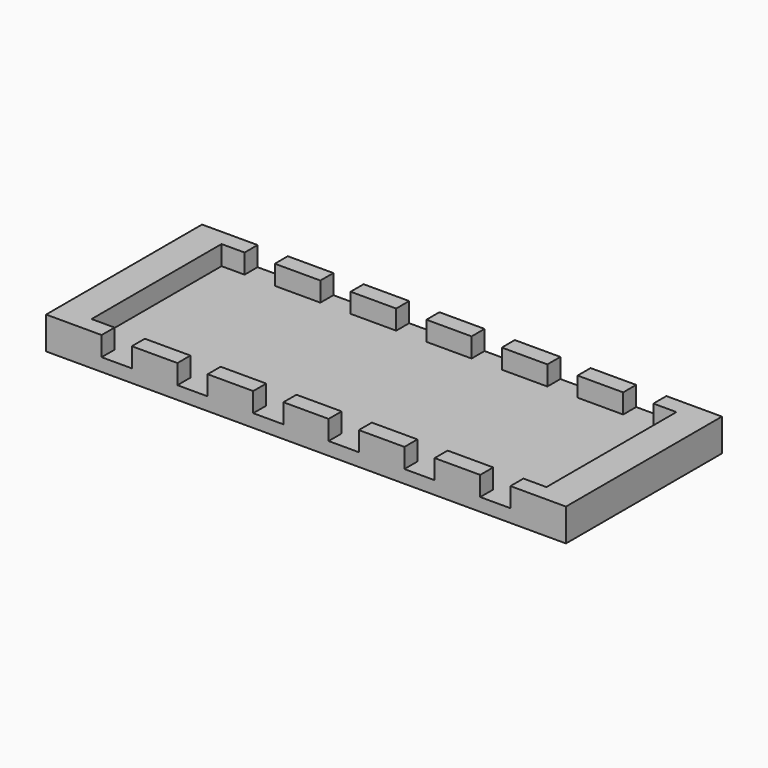
from build123d import *

# Parameters (mm, degrees)
F0_W     = 14.03
F0_H     = 5
F0_W_2   = 13.9
F0_H_2   = 25
F0_W_3   = 9.3
F0_W_4   = 7.09
F0_H_3   = 50
F1_DEPTH = 4
F2_DEPTH = 6


with BuildPart() as f1:
    # F0 (on Top) → F1 (new body)
    with BuildSketch(Plane.XY):
        with Locations((-23.265, 27.5)):
            Rectangle(F0_W, F0_H)
        with Locations((0, -27.5)):
            Rectangle(F0_W_2, F0_H)
        with Locations((46.595, -27.5)):
            Rectangle(F0_W, F0_H)
        Polygon((-62.91, 25), (-62.91, 30), (-80, 30), (-80, -30), (-62.91, -30), (-62.91, -25), (-70, -25), (-70, 25), align=None)
        with Locations((23.265, -12.5)):
            Rectangle(F0_W, F0_H_2)
        with Locations((58.26, -27.5)):
            Rectangle(F0_W_3, F0_H)
        with Locations((34.93, 27.5)):
            Rectangle(F0_W_3, F0_H)
        with Locations((-11.6, -27.5)):
            Rectangle(F0_W_3, F0_H)
        with Locations((-66.455, 0)):
            Rectangle(F0_W_4, F0_H_3)
        with Locations((23.265, 27.5)):
            Rectangle(F0_W, F0_H)
        with Locations((66.455, 0)):
            Rectangle(F0_W_4, F0_H_3)
        with Locations((-58.26, 27.5)):
            Rectangle(F0_W_3, F0_H)
        with Locations((46.595, 27.5)):
            Rectangle(F0_W, F0_H)
        with Locations((-46.595, 27.5)):
            Rectangle(F0_W, F0_H)
        Polygon((80, -30), (80, 30), (62.91, 30), (62.91, 25), (70, 25), (70, -25), (62.91, -25), (62.91, -30), align=None)
        with Locations((-34.93, 27.5)):
            Rectangle(F0_W_3, F0_H)
        with Locations((58.26, 27.5)):
            Rectangle(F0_W_3, F0_H)
        with Locations((11.6, 27.5)):
            Rectangle(F0_W_3, F0_H)
        with Locations((0, 27.5)):
            Rectangle(F0_W_2, F0_H)
        with Locations((-23.265, -27.5)):
            Rectangle(F0_W, F0_H)
        with Locations((-11.6, 27.5)):
            Rectangle(F0_W_3, F0_H)
        with Locations((23.265, -27.5)):
            Rectangle(F0_W, F0_H)
        with Locations((-34.93, -27.5)):
            Rectangle(F0_W_3, F0_H)
        with Locations((-46.595, 0)):
            Rectangle(F0_W, F0_H_3)
        with Locations((23.265, 12.5)):
            Rectangle(F0_W, F0_H_2)
        Polygon((6.95, 0), (6.95, 25), (-6.95, 25), (-6.95, -25), (6.95, -25), align=None)
        with Locations((34.93, -27.5)):
            Rectangle(F0_W_3, F0_H)
        with Locations((-46.595, -27.5)):
            Rectangle(F0_W, F0_H)
        with Locations((46.595, 12.5)):
            Rectangle(F0_W, F0_H_2)
        with Locations((46.595, -12.5)):
            Rectangle(F0_W, F0_H_2)
        with Locations((-58.26, -27.5)):
            Rectangle(F0_W_3, F0_H)
        with Locations((-23.265, 0)):
            Rectangle(F0_W, F0_H_3)
        with Locations((11.6, -27.5)):
            Rectangle(F0_W_3, F0_H)
        with Locations((-58.26, 0)):
            Rectangle(F0_W_3, F0_H_3)
        with Locations((-34.93, 0)):
            Rectangle(F0_W_3, F0_H_3)
        with Locations((-11.6, 0)):
            Rectangle(F0_W_3, F0_H_3)
        Polygon((16.25, -25), (16.25, 0), (11.6, 0), (6.95, 0), (6.95, -25), align=None)
        Polygon((16.25, 0), (16.25, 25), (6.95, 25), (6.95, 0), (11.6, 0), align=None)
        Polygon((39.58, 0), (39.58, 25), (30.28, 25), (30.28, 0), (34.93, 0), align=None)
        Polygon((62.91, -25), (62.91, 25), (53.61, 25), (53.61, 0), (53.61, -25), align=None)
        Polygon((39.58, -25), (39.58, 0), (34.93, 0), (30.28, 0), (30.28, -25), align=None)
    extrude(amount=-F1_DEPTH)

    # F0 (on Top) → F2 (join)
    with BuildSketch(Plane.XY):
        Polygon((-62.91, 25), (-62.91, 30), (-80, 30), (-80, -30), (-62.91, -30), (-62.91, -25), (-70, -25), (-70, 25), align=None)
        with Locations((-46.595, 27.5)):
            Rectangle(F0_W, F0_H)
        with Locations((-46.595, -27.5)):
            Rectangle(F0_W, F0_H)
        with Locations((-23.265, -27.5)):
            Rectangle(F0_W, F0_H)
        with Locations((-23.265, 27.5)):
            Rectangle(F0_W, F0_H)
        with Locations((0, 27.5)):
            Rectangle(F0_W_2, F0_H)
        with Locations((0, -27.5)):
            Rectangle(F0_W_2, F0_H)
        with Locations((23.265, -27.5)):
            Rectangle(F0_W, F0_H)
        with Locations((23.265, 27.5)):
            Rectangle(F0_W, F0_H)
        with Locations((46.595, 27.5)):
            Rectangle(F0_W, F0_H)
        with Locations((46.595, -27.5)):
            Rectangle(F0_W, F0_H)
        Polygon((80, -30), (80, 30), (62.91, 30), (62.91, 25), (70, 25), (70, -25), (62.91, -25), (62.91, -30), align=None)
    extrude(amount=F2_DEPTH)


solid = f1.part
